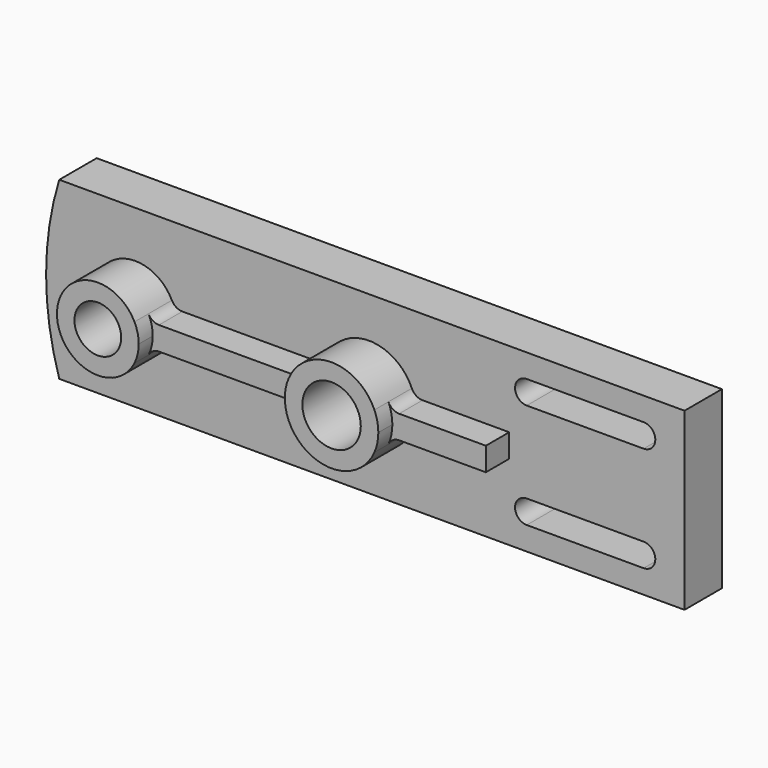
from build123d import *

# Parameters (mm, degrees)
F1_DEPTH = 8
F2_DEPTH = 13
F0_R     = 4
F0_R_2   = 5
F3_DEPTH = 16


with BuildPart() as f1:
    # F0 (on Front) → F1 (new body)
    with BuildSketch(Plane.XZ):
        with BuildLine():
            Line((107, 0), (0, 0))
            ThreePointArc((0, 0), (-2.25577, -15), (0, -30))
            Line((0, -30), (107, -30))
            Line((107, -30), (107, 0))
        make_face()
        with BuildLine():
            ThreePointArc((80, -26), (78, -24), (80, -22))
            Line((80, -22), (100, -22))
            ThreePointArc((100, -22), (102, -24), (100, -26))
            Line((100, -26), (80, -26))
        make_face(mode=Mode.SUBTRACT)
        with BuildLine():
            ThreePointArc((19.270645, -18.111111), (6, -15), (19.270645, -11.888889))
            ThreePointArc((19.270645, -11.888889), (20.008165, -12.699673), (21.062258, -13))
            Line((21.062258, -13), (43.834849, -13))
            ThreePointArc((43.834849, -13), (44.930294, -12.67332), (45.667879, -11.8))
            ThreePointArc((45.667879, -11.8), (53, -7), (60.332121, -11.8))
            ThreePointArc((60.332121, -11.8), (61.069706, -12.67332), (62.165151, -13))
            Line((62.165151, -13), (77, -13))
            Line((77, -13), (77, -17))
            Line((77, -17), (62.165151, -17))
            ThreePointArc((62.165151, -17), (61.069706, -17.32668), (60.332121, -18.2))
            ThreePointArc((60.332121, -18.2), (53, -23), (45.667879, -18.2))
            ThreePointArc((45.667879, -18.2), (44.930294, -17.32668), (43.834849, -17))
            Line((43.834849, -17), (21.062258, -17))
            ThreePointArc((21.062258, -17), (20.008165, -17.300327), (19.270645, -18.111111))
        make_face(mode=Mode.SUBTRACT)
        with BuildLine():
            ThreePointArc((80, -8), (78, -6), (80, -4))
            Line((80, -4), (100, -4))
            ThreePointArc((100, -4), (102, -6), (100, -8))
            Line((100, -8), (80, -8))
        make_face(mode=Mode.SUBTRACT)
    extrude(amount=F1_DEPTH)

    # F0 (on Front) → F2 (join)
    with BuildSketch(Plane.XZ):
        with BuildLine():
            ThreePointArc((19.270645, -11.888889), (19.815222, -13.402269), (20, -15))
            ThreePointArc((20, -15), (19.815222, -16.597731), (19.270645, -18.111111))
            ThreePointArc((19.270645, -18.111111), (20.008165, -17.300327), (21.062258, -17))
            Line((21.062258, -17), (43.834849, -17))
            ThreePointArc((43.834849, -17), (44.930294, -17.32668), (45.667879, -18.2))
            ThreePointArc((45.667879, -18.2), (45, -15), (45.667879, -11.8))
            ThreePointArc((45.667879, -11.8), (44.930294, -12.67332), (43.834849, -13))
            Line((43.834849, -13), (21.062258, -13))
            ThreePointArc((21.062258, -13), (20.008165, -12.699673), (19.270645, -11.888889))
        make_face()
        with BuildLine():
            ThreePointArc((62.165151, -13), (61.069706, -12.67332), (60.332121, -11.8))
            ThreePointArc((60.332121, -11.8), (60.831251, -13.365523), (61, -15))
            ThreePointArc((61, -15), (60.831251, -16.634477), (60.332121, -18.2))
            ThreePointArc((60.332121, -18.2), (61.069706, -17.32668), (62.165151, -17))
            Line((62.165151, -17), (77, -17))
            Line((77, -17), (77, -13))
            Line((77, -13), (62.165151, -13))
        make_face()
    extrude(amount=F2_DEPTH)

    # F0 (on Front) → F3 (join)
    with BuildSketch(Plane.XZ):
        with BuildLine():
            ThreePointArc((19.270645, -18.111111), (19.815222, -16.597731), (20, -15))
            ThreePointArc((20, -15), (19.815222, -13.402269), (19.270645, -11.888889))
            ThreePointArc((19.270645, -11.888889), (6, -15), (19.270645, -18.111111))
        make_face()
        with Locations((13, -15)):
            Circle(F0_R, mode=Mode.SUBTRACT)
        with BuildLine():
            ThreePointArc((60.332121, -11.8), (53, -7), (45.667879, -11.8))
            ThreePointArc((45.667879, -11.8), (45, -15), (45.667879, -18.2))
            ThreePointArc((45.667879, -18.2), (53, -23), (60.332121, -18.2))
            ThreePointArc((60.332121, -18.2), (60.831251, -16.634477), (61, -15))
            ThreePointArc((61, -15), (60.831251, -13.365523), (60.332121, -11.8))
        make_face()
        with Locations((53, -15)):
            Circle(F0_R_2, mode=Mode.SUBTRACT)
    extrude(amount=F3_DEPTH)


solid = f1.part
